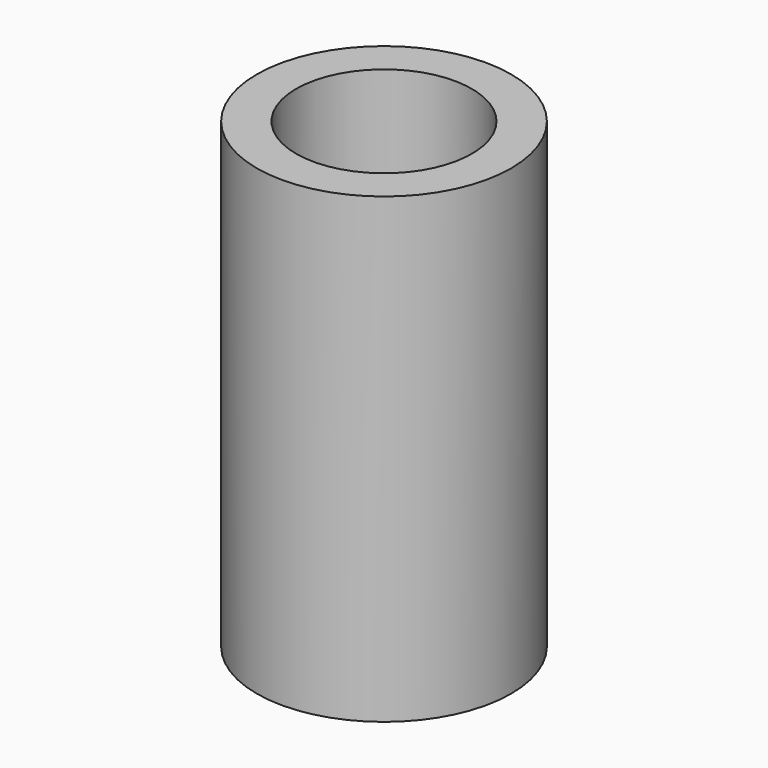
from build123d import *

# Parameters (mm, degrees)
F0_R     = 27.5
F1_DEPTH = 50
F3_D     = 38


with BuildPart() as f1:
    # F0 (on Top) → F1 (new body, symmetric)
    with BuildSketch(Plane.XY):
        Circle(F0_R)
    extrude(amount=F1_DEPTH, both=True)

    # F3 (through all)
    with Locations(Plane(origin=(0, 0, -50), x_dir=(1, 0, 0), z_dir=(0, 0, -1))):
        with Locations((0, 0)):
            Hole(F3_D / 2)


solid = f1.part
